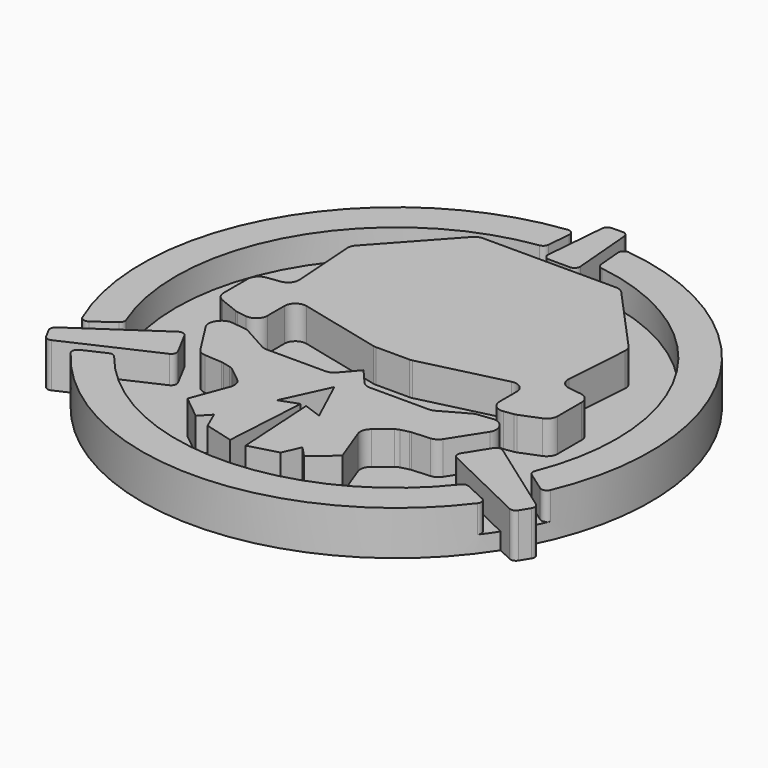
from build123d import *

# Parameters (mm, degrees)
F1_R      = 46
F2_DEPTH  = 8
F3_R      = 39.8466862326
F4_DEPTH  = 6
F7_DEPTH  = 25
F9_ANGLE  = 120
F10_ANGLE = 120
F13_DEPTH = 8
F15_DEPTH = 8
F16_ANGLE = 120
F18_DEPTH = 6
F20_DEPTH = 6
F21_R     = 1
F22_R     = 2
F23_R     = 2


with BuildPart() as f2:
    # F1 (on offset) → F2 (new body)
    with BuildSketch(Plane.XY.offset(-3)):
        Circle(F1_R)
    extrude(amount=F2_DEPTH)


with BuildPart() as f4:
    # F3 (on Top) → F4 (new body)
    with BuildSketch(Plane.XY):
        Circle(F3_R)
    extrude(amount=F4_DEPTH)


with BuildPart() as f2_1:
    add(f2.part)

    # F5: cut F4
    add(f4.part, mode=Mode.SUBTRACT)


with BuildPart() as f7:
    # F6 (on Top) → F7 (new body)
    with BuildSketch(Plane.XY):
        Polygon((4.2, 46.7533776755), (-4.2, 46.7533776755), (-5, 38), (5, 38), align=None)
    extrude(amount=F7_DEPTH)


with BuildPart() as f9_1:
    # F9: copy of F7
    add(f7.part.rotate(Axis((0, 0, 3.5398988872), (0, 0, -1)), F9_ANGLE))


with BuildPart() as f10_1:
    # F10: copy of F9_1
    add(f9_1.part.rotate(Axis((0, 0, 3.5398988872), (0, 0, -1)), F10_ANGLE))


with BuildPart() as f2_2:
    add(f2_1.part)

    # F11: cut F10_1, F9_1, F7
    add(f10_1.part, mode=Mode.SUBTRACT)
    add(f9_1.part, mode=Mode.SUBTRACT)
    add(f7.part, mode=Mode.SUBTRACT)



with BuildPart() as f13:
    # F12 (on offset) → F13 (new body)
    with BuildSketch(Plane.XY.offset(-3)):
        Polygon((1.9, 49.994420498), (-1.9, 49.925893195), (-3, 36.9057094163), (3, 36.9057094163), align=None)
    extrude(amount=F13_DEPTH)


with BuildPart() as f15:
    # F14 (on offset) → F15 (new body)
    with BuildSketch(Plane.XY.offset(-3)):
        Polygon((42.1813093126, -26.4778193086), (44.179931283, -23.2300590724), (28.5657010972, -12.1127264574), (24.8182862997, -18.1085914373), align=None)
    extrude(amount=F15_DEPTH)


with BuildPart() as f16_1:
    # F16: copy of F15
    add(f15.part.rotate(Axis((0, 0, 3.5398988872), (0, 0, -1)), F16_ANGLE))


with BuildPart() as f18:
    # F17 (on Top) → F18 (new body)
    with BuildSketch(Plane.XY):
        Polygon((25.2, 21.096765488), (12.9, 34.6466732368), (-12.9, 34.6466732368), (-25.2, 21.096765488), (-24.2, 6.7315296738), (-30.2, 5.9), (-30.2, -2.6), (-25.2, -4.6), (-21, -5.2), (-21, 3.5), (-3.3, -0.8), (3.3, -0.8), (21, 3.5), (21, -5.2), (25.2, -4.6), (30.2, -2.5974751513), (30.2, 5.9025248487), (24.2, 6.7315296738), align=None)
    extrude(amount=F18_DEPTH)


with BuildPart() as f2_3:
    add(f2_2.part)

    add(f13.part)  # F20 merges F13

    add(f15.part)  # F20 merges F15

    add(f16_1.part)  # F20 merges F16_1

    add(f18.part)  # F20 merges F18
    # F19 (on Top) → F20 (join)
    with BuildSketch(Plane.XY):
        Polygon((3.1, -11), (0, -7.4), (-3.1, -11), (-15.2, -11), (-20.6, -8), (-24.6, -7.5), (-26.5, -9.7), (-21.4, -17.7), (-17, -18), (-15, -18.5), (-11, -21.7), (-14, -29.7), (-9.8, -33.1), (-8, -31.2), (-6.6, -34.4), (-1.4, -35.8), (-0.5, -21), (-3.8, -22.2), (0, -14), (3.8, -22.2), (0.5, -21), (1.4, -35.8), (6.6, -34.4), (8, -31.2), (9.8, -33.1), (14, -29.7), (11, -21.7), (15, -18.5), (17, -18), (21.4, -17.7), (26.5, -9.7), (24.6, -7.5), (20.6, -8), (15.2, -11), align=None)
    extrude(amount=F20_DEPTH)

    # F21
    f21_edges = [f2_3.edges().sort_by_distance(p)[0] for p in [
        (1.9, 49.99442, 1),
        (-1.9, 49.925893, 1),
        (3, 36.905709, 2.5),
        (-3, 36.905709, 2.5),
        (-28.091643, -12.438971, 2.5),
        (-44.021119, -23.291176, 1),
        (-42.207787, -26.645913, 1),
        (-24.772779, -18.68226, 2.5),
        (24.818286, -18.108591, 2.5),
        (28.565701, -12.112726, 2.5),
        (42.181309, -26.477819, 1),
        (44.179931, -23.230059, 1),
        (37.520202, -26.612675, 2.5),
        (41.807353, -19.18711, 2.5),
        (36.679976, -15.567202, 2.5),
        (31.82158, -23.98219, 2.5),
        (4.287152, 45.799785, 2.5),
        (-4.287152, 45.799785, 2.5),
        (-4.858396, 39.549392, 2.5),
        (4.858396, 39.549392, 2.5),
        (-41.807353, -19.18711, 2.5),
        (-37.520202, -26.612675, 2.5),
        (-36.679976, -15.567202, 2.5),
        (-31.82158, -23.98219, 2.5),
    ]]
    fillet(f21_edges, radius=F21_R)

    # F22
    f22_edges = [f2_3.edges().sort_by_distance(p)[0] for p in [
        (30.2, 5.902525, 3),
        (30.2, -2.597475, 3),
        (24.2, 6.73153, 3),
        (25.2, 21.096765, 3),
        (12.9, 34.646673, 3),
        (-12.9, 34.646673, 3),
        (-25.2, 21.096765, 3),
        (-24.2, 6.73153, 3),
        (-30.2, 5.9, 3),
        (-30.2, -2.6, 3),
        (-25.2, -4.6, 3),
        (-21, -5.2, 3),
        (-21, 3.5, 3),
        (-3.3, -0.8, 3),
        (3.3, -0.8, 3),
        (21, 3.5, 3),
        (21, -5.2, 3),
        (25.2, -4.6, 3),
    ]]
    fillet(f22_edges, radius=F22_R)

    # F23
    f23_edges = [f2_3.edges().sort_by_distance(p)[0] for p in [
        (26.5, -9.7, 3),
        (21.4, -17.7, 3),
        (17, -18, 3),
        (15, -18.5, 3),
        (11, -21.7, 3),
        (-11, -21.7, 3),
        (-15, -18.5, 3),
        (-17, -18, 3),
        (-21.4, -17.7, 3),
        (-26.5, -9.7, 3),
        (-24.6, -7.5, 3),
        (-20.6, -8, 3),
        (-15.2, -11, 3),
        (-3.1, -11, 3),
        (3.1, -11, 3),
        (15.2, -11, 3),
        (20.6, -8, 3),
        (24.6, -7.5, 3),
    ]]
    fillet(f23_edges, radius=F23_R)


with BuildPart() as f24_1:
    # F24: copy of F2
    add(f2_3.part)


solid = f2_3.part
